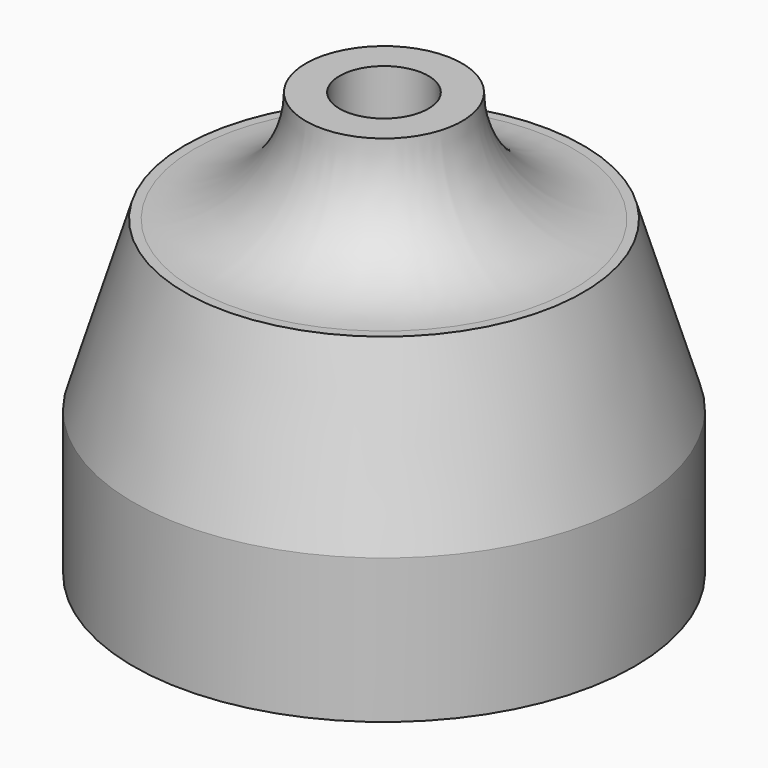
from build123d import *

# Parameters (mm, degrees)
F3_DEPTH = 35.967948
F5_COUNT = 3
F5_ANGLE = 240
F9_COUNT = 3
F9_ANGLE = 240


with BuildPart() as f1:
    # F0 (on Front) → F1 (revolve)
    with BuildSketch(Plane.XZ):
        with BuildLine():
            Line((-35.966948, -26.884749), (-31.12, -26.884749))
            Line((-31.12, -26.884749), (-31.12, -6.884749))
            Line((-31.12, -6.884749), (-25, 13.115251))
            Line((-25, 13.115251), (-6.375, 13.115251))
            Line((-6.375, 13.115251), (-6.375, 33.962199))
            Line((-6.375, 33.962199), (-11.221948, 33.962199))
            ThreePointArc((-11.221948, 33.962199), (-15.908239, 22.64849), (-27.221948, 17.962199))
            Line((-27.221948, 17.962199), (-28.585629, 17.962199))
            Line((-28.585629, 17.962199), (-35.966948, -6.159757))
            Line((-35.966948, -6.159757), (-35.966948, -26.884749))
        make_face()
    revolve(axis=Axis((0, 0, 3.115251), (0, 0, -1)))

    # F2 (on Front) → F3 (cut, through all)
    with BuildSketch(Plane.XZ):
        with BuildLine():
            ThreePointArc((5.600963, 5.956731), (0.100963, 11.456731), (-5.399037, 5.956731))
            Line((-5.399037, 5.956731), (5.600963, 5.956731))
        make_face()
        with BuildLine():
            Line((5.600963, 5.956731), (-5.399037, 5.956731))
            ThreePointArc((-5.399037, 5.956731), (0.100963, 0.456731), (5.600963, 5.956731))
        make_face()
    extrude(amount=-F3_DEPTH, mode=Mode.SUBTRACT)


with BuildPart() as f5_1:
    # F5: instance of F1
    add(f1.part.rotate(Axis((0, 0, 22.867789), (0, 0, 1)), 1 * F5_ANGLE / (F5_COUNT - 1)))


with BuildPart() as f5_2:
    # F5: instance of F1
    add(f1.part.rotate(Axis((0, 0, 22.867789), (0, 0, 1)), 2 * F5_ANGLE / (F5_COUNT - 1)))


with BuildPart() as f9_1:
    # F9: instance of F1
    add(f1.part.rotate(Axis((0, 0, 23.663558), (0, 0, 1)), 1 * F9_ANGLE / (F9_COUNT - 1)))


with BuildPart() as f9_2:
    # F9: instance of F1
    add(f1.part.rotate(Axis((0, 0, 23.663558), (0, 0, 1)), 2 * F9_ANGLE / (F9_COUNT - 1)))


solid = f1.part
